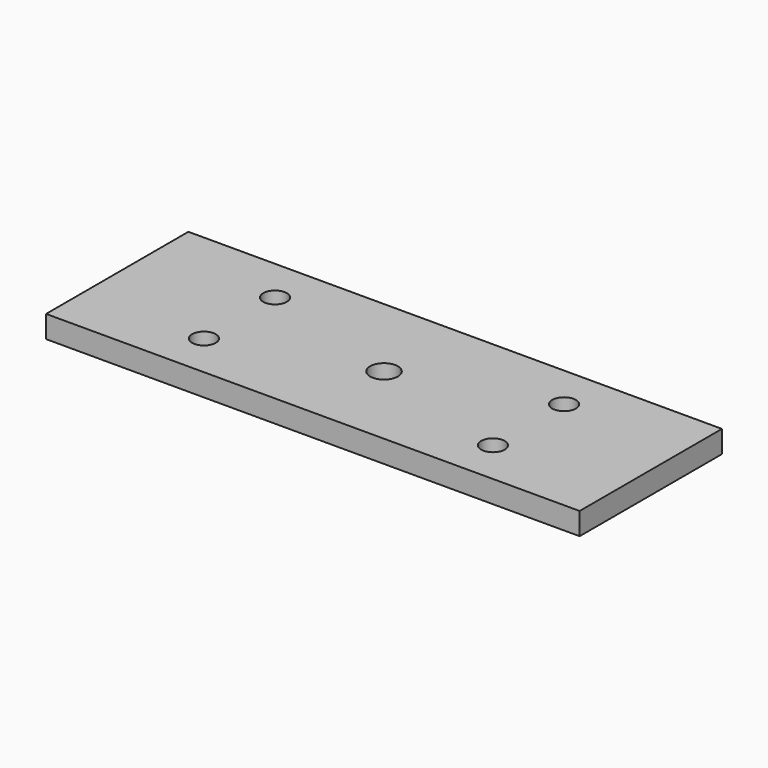
from build123d import *

# Parameters (mm, degrees)
F0_W     = 304.8
F0_H     = 101.6
F0_R     = 6.7437
F1_DEPTH = 12.7
F2_R     = 7.9375
F3_DEPTH = 25.4


with BuildPart() as f1:
    # F0 (on Top) → F1 (new body)
    with BuildSketch(Plane.XY):
        with Locations((152.4, 50.8)):
            Rectangle(F0_W, F0_H)
        with Locations((69.85, 25.4)):
            Circle(F0_R, mode=Mode.SUBTRACT)
        with Locations((234.95, 25.4)):
            Circle(F0_R, mode=Mode.SUBTRACT)
        with Locations((69.85, 76.2)):
            Circle(F0_R, mode=Mode.SUBTRACT)
        with Locations((234.95, 76.2)):
            Circle(F0_R, mode=Mode.SUBTRACT)
    extrude(amount=F1_DEPTH)

    # F2 (on face) → F3 (cut)
    with BuildSketch(Plane(origin=(0, 0, 0), x_dir=(1, 0, 0), z_dir=(0, 0, -1))):
        with Locations((152.4, -50.8)):
            Circle(F2_R)
    extrude(amount=-F3_DEPTH, mode=Mode.SUBTRACT)


solid = f1.part
